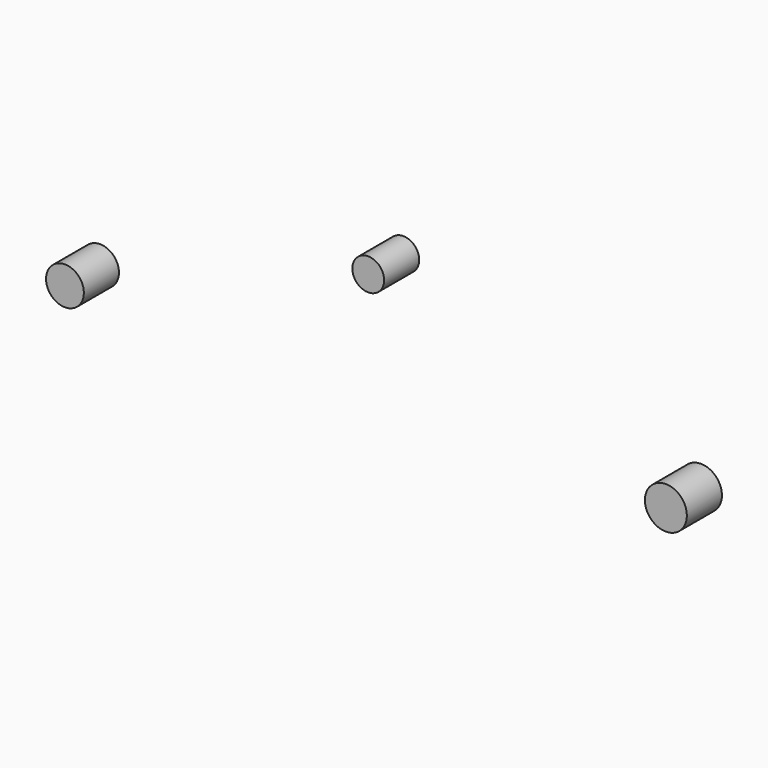
from build123d import *

# Parameters (mm, degrees)
F0_R     = 9.205578
F0_R_2   = 10.952577
F0_R_3   = 12.144985
F1_DEPTH = 25.4


with BuildPart() as f1:
    # F0 (on Front) → F1 (new body)
    with BuildSketch(Plane.XZ):
        Circle(F0_R)
        with Locations((-175.69378, -62.996812)):
            Circle(F0_R_2)
        with Locations((172.441736, -62.996812)):
            Circle(F0_R_3)
    extrude(amount=F1_DEPTH)


solid = f1.part
